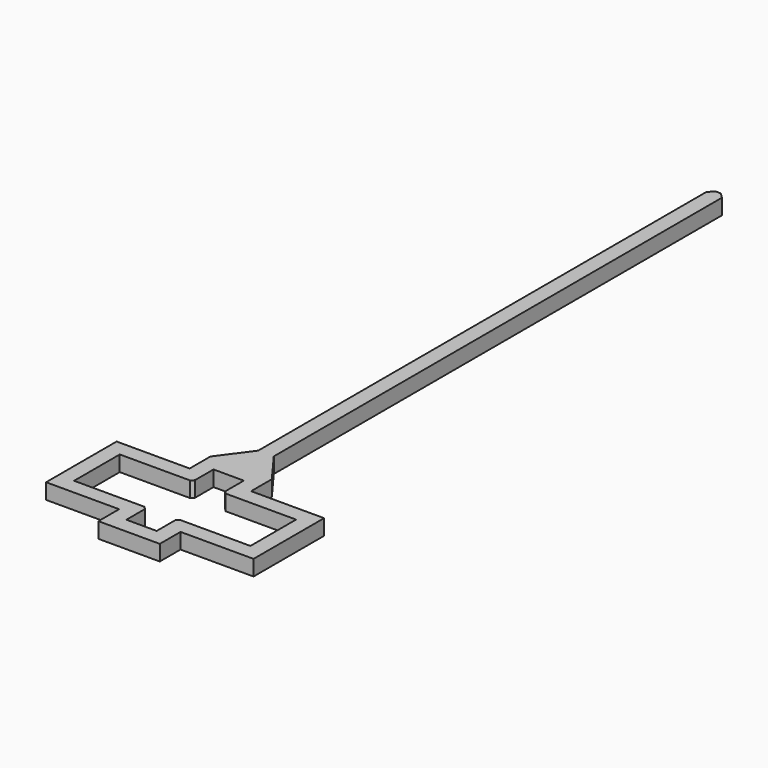
from build123d import *

# Parameters (mm, degrees)
PAD_DEPTH       = 3
CHAMFER_SIZE    = 0.5
CHAMFER001_SIZE = 1


with BuildPart() as part:
    # Sketch → Pad (new body)
    with BuildSketch(Plane.XY):
        Polygon((-5.921, -13.5), (5.921, -13.5), (5.921, -8.5), (20, -8.5), (20, 8.5), (5.921, 8.5), (5.921, 13.5), (1.5, 19.5), (1.5, 128.5), (-1.5, 128.5), (-1.5, 19.5), (-5.921, 13.5), (-5.921, 8.5), (-20, 8.5), (-20, -8.5), (-5.921, -8.5), align=None)
        Polygon((2.921, -10.5), (-2.921, -10.5), (-2.921, -5.5), (-17, -5.5), (-17, 5.5), (-2.921, 5.5), (-2.921, 10.5), (2.921, 10.5), (2.921, 5.5), (17, 5.5), (17, -5.5), (2.921, -5.5), align=None, mode=Mode.SUBTRACT)
    extrude(amount=PAD_DEPTH)

    # Chamfer
    chamfer_edges = [part.edges().sort_by_distance(p)[0] for p in [
        (-2.921, 5.5, 1.5),
        (2.921, 5.5, 1.5),
        (-2.921, -5.5, 1.5),
        (2.921, -5.5, 1.5),
    ]]
    chamfer(chamfer_edges, length=CHAMFER_SIZE)

    # Chamfer001
    chamfer001_edges = [part.edges().sort_by_distance(p)[0] for p in [
        (1.5, 128.5, 1.5),
        (-1.5, 128.5, 1.5),
    ]]
    chamfer(chamfer001_edges, length=CHAMFER001_SIZE)


solid = part.part
